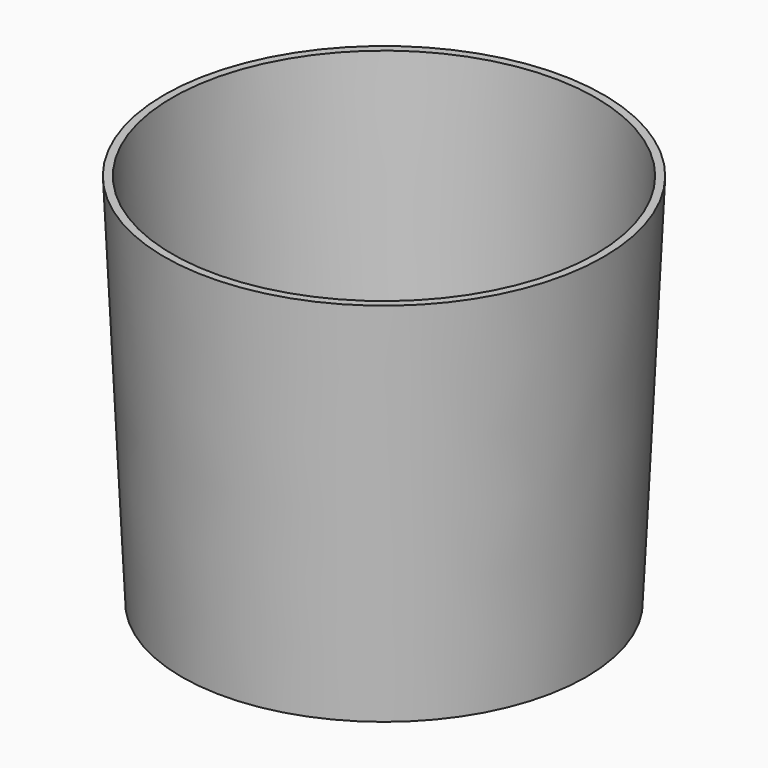
from build123d import *

# Parameters (mm, degrees)
F4_R = 44.5643
F3_R = 41.021
F0_R = 39.4335
F2_R = 42.9768


with BuildPart() as f5:
    # F4 (on offset) → F5 section 0
    with BuildSketch(Plane.XY.offset(76.2)):
        Circle(F4_R)
    # F3 (on Top) → F5 section 1
    with BuildSketch(Plane.XY):
        Circle(F3_R)
    loft()

    # F0 (on Top) → F6 section 0
    with BuildSketch(Plane.XY):
        Circle(F0_R)
    # F2 (on offset) → F6 section 1
    with BuildSketch(Plane.XY.offset(76.2)):
        Circle(F2_R)
    loft(mode=Mode.SUBTRACT)


solid = f5.part
